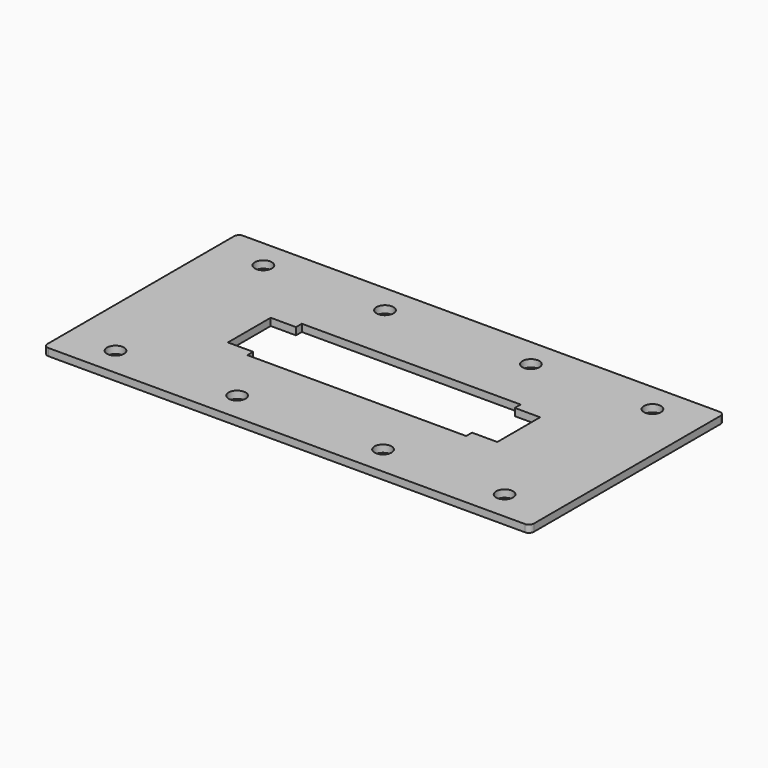
from build123d import *

# Parameters (mm, degrees)
F0_R     = 3.5
F1_DEPTH = 3


with BuildPart() as f1:
    # F0 (on Top) → F1 (new body)
    with BuildSketch(Plane.XY):
        with BuildLine():
            Line((-125.965531, 27.705068), (-143.965531, 27.705068))
            ThreePointArc((-143.965531, 27.705068), (-145.379745, 27.119281), (-145.965531, 25.705068))
            Line((-145.965531, 25.705068), (-145.965531, -70.294932))
            ThreePointArc((-145.965531, -70.294932), (-145.379745, -71.709146), (-143.965531, -72.294932))
            Line((-143.965531, -72.294932), (52.034469, -72.294932))
            ThreePointArc((52.034469, -72.294932), (53.448682, -71.709146), (54.034469, -70.294932))
            Line((54.034469, -70.294932), (54.034469, 25.705068))
            ThreePointArc((54.034469, 25.705068), (53.448682, 27.119281), (52.034469, 27.705068))
            Line((52.034469, 27.705068), (34.034469, 27.705068))
            Line((34.034469, 27.705068), (-15.965531, 27.705068))
            Line((-15.965531, 27.705068), (-75.965531, 27.705068))
            Line((-75.965531, 27.705068), (-125.965531, 27.705068))
        make_face()
        with Locations((-125.965531, -60.294932)):
            Circle(F0_R, mode=Mode.SUBTRACT)
        with Locations((-75.965531, -60.294932)):
            Circle(F0_R, mode=Mode.SUBTRACT)
        with Locations((-15.965531, -60.294932)):
            Circle(F0_R, mode=Mode.SUBTRACT)
        with Locations((34.034469, -60.294932)):
            Circle(F0_R, mode=Mode.SUBTRACT)
        Polygon((-90.965531, -11.294932), (-90.965531, -8.294932), (-0.965531, -8.294932), (-0.965531, -11.294932), (9.434469, -11.294932), (9.434469, -33.294932), (-0.965531, -33.294932), (-0.965531, -36.294932), (-90.965531, -36.294932), (-90.965531, -33.294932), (-101.365531, -33.294932), (-101.365531, -11.294932), align=None, mode=Mode.SUBTRACT)
        with Locations((-125.965531, 15.705068)):
            Circle(F0_R, mode=Mode.SUBTRACT)
        with Locations((-75.965531, 15.705068)):
            Circle(F0_R, mode=Mode.SUBTRACT)
        with Locations((-15.965531, 15.705068)):
            Circle(F0_R, mode=Mode.SUBTRACT)
        with Locations((34.034469, 15.705068)):
            Circle(F0_R, mode=Mode.SUBTRACT)
    extrude(amount=F1_DEPTH)


solid = f1.part
